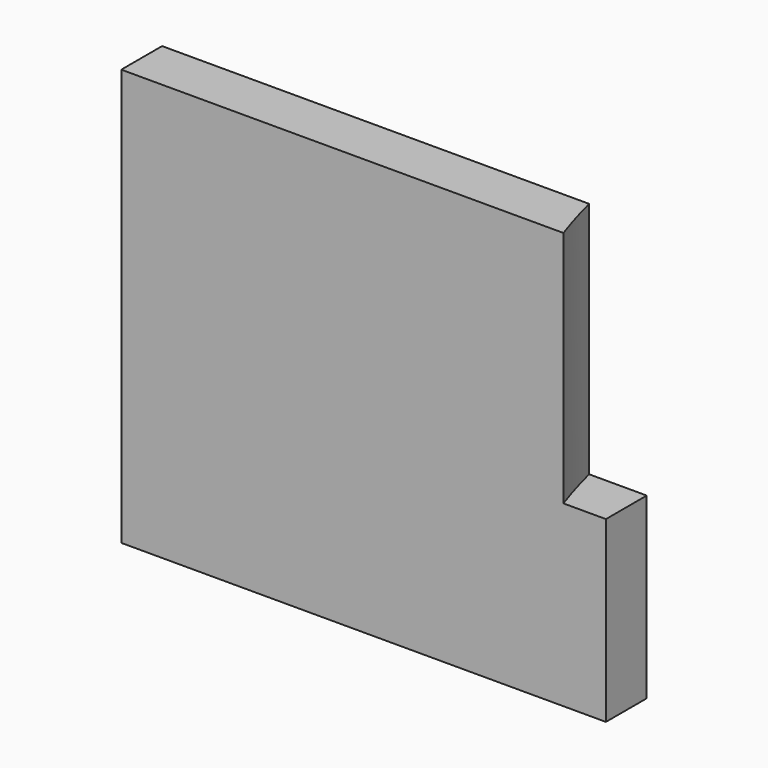
from build123d import *

# Parameters (mm, degrees)
CYLINDER906_R     = 74
CYLINDER906_DEPTH = 32
BOX432_W          = 57
BOX432_H          = 6
BOX432_DEPTH      = 49


with BuildPart() as obj1:
    # Cylinder906 → Cylinder906 (new body)
    with BuildSketch(Plane.XY.offset(50)):
        Circle(CYLINDER906_R)
    extrude(amount=CYLINDER906_DEPTH)


with BuildPart() as cut406:
    # Box432 → Box432 (new body)
    with BuildSketch(Plane(origin=(-122, -24, 29), x_dir=(1, 0, 0), z_dir=(0, 0, 1))):
        with Locations((28.5, 3)):
            Rectangle(BOX432_W, BOX432_H)
    extrude(amount=BOX432_DEPTH)

    # Cut406: cut obj1
    add(obj1.part, mode=Mode.SUBTRACT)


solid = cut406.part
